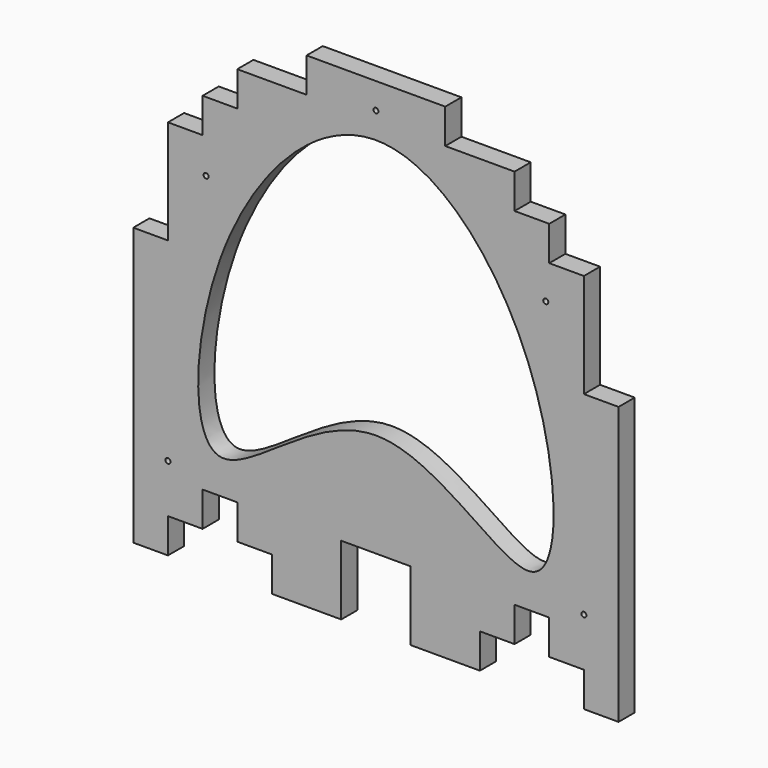
from build123d import *

# Parameters (mm, degrees)
F0_R     = 1.5875
F1_DEPTH = 12.7


with BuildPart() as f1:
    # F0 (on Front) → F1 (new body)
    with BuildSketch(Plane.XZ):
        Polygon((0, 174.1714285714), (0, 0), (21.7714285714, 0), (21.7714285714, 21.7714285714), (43.5428571429, 21.7714285714), (43.5428571429, 43.5428571429), (65.3142857143, 43.5428571429), (65.3142857143, 21.7714285714), (87.0857142857, 21.7714285714), (87.0857142857, 0), (130.6285714286, 0), (130.6285714286, 43.5428571429), (174.1714285714, 43.5428571429), (174.1714285714, 0), (217.7142857143, 0), (217.7142857143, 21.7714285714), (239.4857142857, 21.7714285714), (239.4857142857, 43.5428571429), (261.2571428571, 43.5428571429), (261.2571428571, 21.7714285714), (283.0285714286, 21.7714285714), (283.0285714286, 0), (304.8, 0), (304.8, 174.1714285714), (283.0285714286, 174.1714285714), (283.0285714286, 239.4857142857), (261.2571428571, 239.4857142857), (261.2571428571, 261.2571428571), (239.4857142857, 261.2571428571), (239.4857142857, 283.0285714286), (195.9428571429, 283.0285714286), (195.9428571429, 304.8), (108.8571428571, 304.8), (108.8571428571, 283.0285714286), (65.3142857143, 283.0285714286), (65.3142857143, 261.2571428571), (43.5428571429, 261.2571428571), (43.5428571429, 239.4857142857), (21.7714285714, 239.4857142857), (21.7714285714, 174.1714285714), align=None)
        with Locations((21.7714285714, 52.2514285714)):
            Circle(F0_R, mode=Mode.SUBTRACT)
        with Locations((283.0285714286, 52.2514285714)):
            Circle(F0_R, mode=Mode.SUBTRACT)
        with Locations((45.72, 217.7142857143)):
            Circle(F0_R, mode=Mode.SUBTRACT)
        with BuildLine():
            add(Edge.make_bspline(
                [(54.4285714286, 174.1714285714), (37.1363879606, 126.0033221639), (33.5567995885, 13.2621109438), (152.4, 156.4726753862), (271.2432004115, 13.2621109438), (265.6367124625, 189.8416995307), (152.4, 315.771946731), (73.9372830193, 228.5137675547), (54.4285714286, 174.1714285714)],
                knots=[0, 0, 0, 0, 0.160225852, 0.3192362496, 0.4782466471, 0.6384724991, 0.8192362496, 1, 1, 1, 1], degree=3))
        make_face(mode=Mode.SUBTRACT)
        with Locations((259.08, 217.7142857143)):
            Circle(F0_R, mode=Mode.SUBTRACT)
        with Locations((152.4, 288.4714285714)):
            Circle(F0_R, mode=Mode.SUBTRACT)
    extrude(amount=F1_DEPTH)


solid = f1.part
